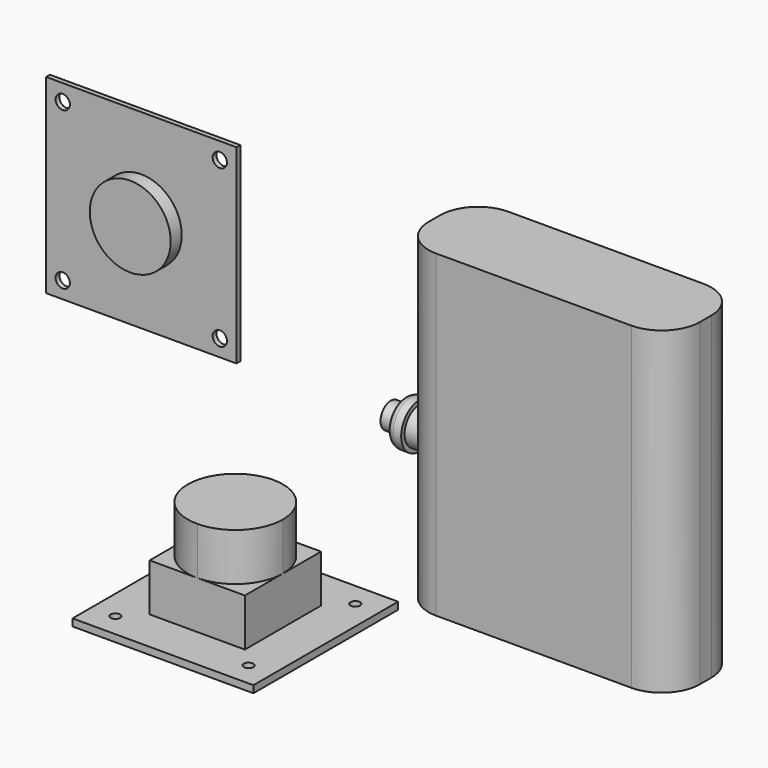
from build123d import *

# Parameters (mm, degrees)
F1_DEPTH = 67
F2_W     = 38
F2_H     = 38
F2_R     = 1
F3_DEPTH = 1.5
F4_DEPTH = 10
F5_DEPTH = 20
F6_W     = 40
F6_H     = 40
F6_R     = 19.5
F6_R_2   = 8.5
F7_DEPTH = 1
F8_DEPTH = 0.6
F9_DEPTH = 3.9
F10_D    = 3


with BuildPart() as f1:
    # F0 (on Top) → F1 (new body)
    with BuildSketch(Plane.XY):
        with BuildLine():
            ThreePointArc((0, 8), (2.3431457505, 2.3431457505), (8, 0))
            Line((8, 0), (49, 0))
            ThreePointArc((49, 0), (54.6568542495, 2.3431457505), (57, 8))
            Line((57, 8), (57, 11))
            ThreePointArc((57, 11), (54.6568542495, 16.6568542495), (49, 19))
            Line((49, 19), (8, 19))
            ThreePointArc((8, 19), (2.3431457505, 16.6568542495), (0, 11))
            Line((0, 11), (0, 8))
        make_face()
    extrude(amount=F1_DEPTH)


with BuildPart() as f3:
    # F2 (on Top) → F3 (new body)
    with BuildSketch(Plane.XY):
        with Locations((-19, -19)):
            Rectangle(F2_W, F2_H)
        with Locations((-33, -33)):
            Circle(F2_R, mode=Mode.SUBTRACT)
        with Locations((-5, -33)):
            Circle(F2_R, mode=Mode.SUBTRACT)
        with Locations((-33, -5)):
            Circle(F2_R, mode=Mode.SUBTRACT)
        Polygon((-29, -19), (-29, -9), (-19, -9), (-9, -9), (-9, -19), (-9, -29), (-19, -29), (-29, -29), align=None, mode=Mode.SUBTRACT)
        with Locations((-5, -5)):
            Circle(F2_R, mode=Mode.SUBTRACT)
        with BuildLine():
            Line((-19, -9), (-29, -9))
            Line((-29, -9), (-29, -19))
            ThreePointArc((-29, -19), (-26.0710678119, -11.9289321881), (-19, -9))
        make_face()
        with BuildLine():
            Line((-9, -9), (-19, -9))
            ThreePointArc((-19, -9), (-11.9289321881, -11.9289321881), (-9, -19))
            Line((-9, -19), (-9, -9))
        make_face()
        with BuildLine():
            ThreePointArc((-9, -19), (-11.9289321881, -11.9289321881), (-19, -9))
            ThreePointArc((-19, -9), (-26.0710678119, -11.9289321881), (-29, -19))
            ThreePointArc((-29, -19), (-26.0710678119, -26.0710678119), (-19, -29))
            ThreePointArc((-19, -29), (-11.9289321881, -26.0710678119), (-9, -19))
        make_face()
        with BuildLine():
            ThreePointArc((-19, -29), (-26.0710678119, -26.0710678119), (-29, -19))
            Line((-29, -19), (-29, -29))
            Line((-29, -29), (-19, -29))
        make_face()
        with BuildLine():
            Line((-9, -29), (-9, -19))
            ThreePointArc((-9, -19), (-11.9289321881, -26.0710678119), (-19, -29))
            Line((-19, -29), (-9, -29))
        make_face()
    extrude(amount=-F3_DEPTH)

    # F2 (on Top) → F4 (join)
    with BuildSketch(Plane.XY):
        with BuildLine():
            Line((-19, -9), (-29, -9))
            Line((-29, -9), (-29, -19))
            ThreePointArc((-29, -19), (-26.0710678119, -11.9289321881), (-19, -9))
        make_face()
        with BuildLine():
            Line((-9, -9), (-19, -9))
            ThreePointArc((-19, -9), (-11.9289321881, -11.9289321881), (-9, -19))
            Line((-9, -19), (-9, -9))
        make_face()
        with BuildLine():
            ThreePointArc((-19, -29), (-26.0710678119, -26.0710678119), (-29, -19))
            Line((-29, -19), (-29, -29))
            Line((-29, -29), (-19, -29))
        make_face()
        with BuildLine():
            ThreePointArc((-9, -19), (-11.9289321881, -11.9289321881), (-19, -9))
            ThreePointArc((-19, -9), (-26.0710678119, -11.9289321881), (-29, -19))
            ThreePointArc((-29, -19), (-26.0710678119, -26.0710678119), (-19, -29))
            ThreePointArc((-19, -29), (-11.9289321881, -26.0710678119), (-9, -19))
        make_face()
        with BuildLine():
            Line((-9, -29), (-9, -19))
            ThreePointArc((-9, -19), (-11.9289321881, -26.0710678119), (-19, -29))
            Line((-19, -29), (-9, -29))
        make_face()
    extrude(amount=F4_DEPTH)

    # F2 (on Top) → F5 (join)
    with BuildSketch(Plane.XY):
        with BuildLine():
            ThreePointArc((-9, -19), (-11.9289321881, -11.9289321881), (-19, -9))
            ThreePointArc((-19, -9), (-26.0710678119, -11.9289321881), (-29, -19))
            ThreePointArc((-29, -19), (-26.0710678119, -26.0710678119), (-19, -29))
            ThreePointArc((-19, -29), (-11.9289321881, -26.0710678119), (-9, -19))
        make_face()
    extrude(amount=F5_DEPTH)


with BuildPart() as f7:
    # F6 (on Front) → F7 (new body)
    with BuildSketch(Plane.XZ):
        with Locations((-53.1648937613, 53.6749299139)):
            Rectangle(F6_W, F6_H)
        with Locations((-53.1648937613, 53.6749299139)):
            Circle(F6_R, mode=Mode.SUBTRACT)
        with Locations((-53.1648937613, 53.6749299139)):
            Circle(F6_R)
        with Locations((-53.1648937613, 53.6749299139)):
            Circle(F6_R_2, mode=Mode.SUBTRACT)
        with Locations((-53.1648937613, 53.6749299139)):
            Circle(F6_R_2)
    extrude(amount=F7_DEPTH)

    # F6 (on Front) → F8 (join)
    with BuildSketch(Plane.XZ):
        with Locations((-53.1648937613, 53.6749299139)):
            Circle(F6_R)
        with Locations((-53.1648937613, 53.6749299139)):
            Circle(F6_R_2, mode=Mode.SUBTRACT)
        with Locations((-53.1648937613, 53.6749299139)):
            Circle(F6_R_2)
    extrude(amount=-F8_DEPTH)

    # F6 (on Front) → F9 (join)
    with BuildSketch(Plane.XZ):
        with Locations((-53.1648937613, 53.6749299139)):
            Circle(F6_R_2)
    extrude(amount=F9_DEPTH)

    # F10 (through all)
    with Locations(Plane(origin=(0, 0, 0), x_dir=(1, 0, 0), z_dir=(0, 1, 0))):
        with Locations((-69.6648937613, -70.1749299139), (-69.6648937613, -37.1749299139), (-36.6648937613, -37.1749299139), (-36.6648937613, -70.1749299139)):
            Hole(F10_D / 2)


with BuildPart() as f12:
    # F11 (on Top) → F12 (revolve)
    with BuildSketch(Plane.XY):
        with BuildLine():
            Line((-42.3140732824, 50.9764954408), (-24.6740732824, 50.9764954408))
            Line((-24.6740732824, 50.9764954408), (-24.6740732824, 54.8764954408))
            Line((-24.6740732824, 54.8764954408), (-36.3140732824, 54.8764954408))
            Line((-36.3140732824, 54.8764954408), (-36.3140732824, 55.7514954408))
            Line((-36.3140732824, 55.7514954408), (-38.0240732824, 55.7514954408))
            ThreePointArc((-38.0240732824, 55.7514954408), (-39.0847334542, 55.3121556126), (-39.5240732824, 54.2514954408))
            Line((-39.5240732824, 54.2514954408), (-39.5240732824, 53.6764954408))
            Line((-39.5240732824, 53.6764954408), (-42.3140732824, 53.6764954408))
            Line((-42.3140732824, 53.6764954408), (-42.3140732824, 50.9764954408))
        make_face()
    revolve(axis=Axis((-33.4940732824, 50.9764954408, 0), (-1, 0, 0)))


solid = Compound([f1.part, f3.part, f7.part, f12.part])
